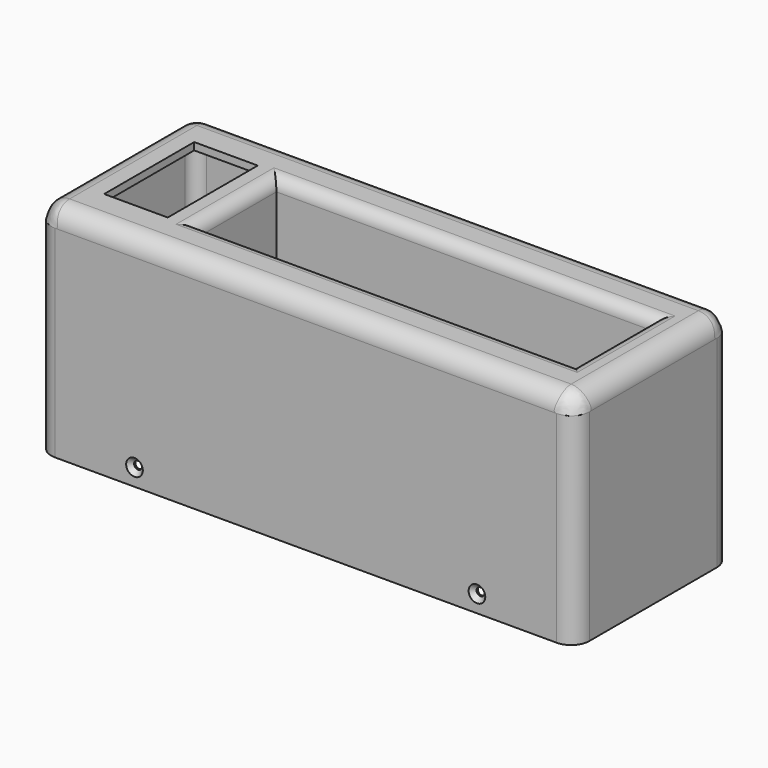
from build123d import *

# Parameters (mm, degrees)
SKETCH_W        = 220
SKETCH_H        = 80
PAD_DEPTH       = 90
SKETCH001_W     = 154
SKETCH001_H     = 40
POCKET_DEPTH    = 50
SKETCH004_W     = 10
SKETCH004_H     = 2
POCKET001_DEPTH = 5
SKETCH003_R     = 11.75
SKETCH003_R_2   = 2.1
POCKET002_DEPTH = 5
SKETCH005_W     = 215
SKETCH005_H     = 75
SKETCH005_W_2   = 160
SKETCH005_H_2   = 46
POCKET003_DEPTH = 87
SKETCH002_W     = 26
SKETCH002_H     = 46
POCKET004_DEPTH = 5
FILLET_R        = 5
FILLET001_R     = 5
FILLET002_R     = 7.5
FILLET003_R     = 5
FILLET004_R     = 4.9
FILLET005_R     = 7.4
SKETCH007_W     = 160
SKETCH007_H     = 46
POCKET005_DEPTH = 34
SKETCH009_R     = 1.6
POCKET006_DEPTH = 80
CHAMFER_SIZE    = 1.8
SKETCH010_W     = 5.5
SKETCH010_H     = 18
POCKET007_DEPTH = 10
SKETCH011_W     = 6
SKETCH011_H     = 5.5
POCKET008_DEPTH = 6
SKETCH006_W     = 124
SKETCH006_H     = 20
POCKET009_DEPTH = 3
SKETCH012_W     = 118
SKETCH012_H     = 14
POCKET010_DEPTH = 3
FILLET006_R     = 0.8
CHAMFER001_SIZE = 1
SKETCH013_R     = 6.5
POCKET011_DEPTH = 5
SKETCH014_W     = 0.6
SKETCH014_H     = 10
PAD001_DEPTH    = 2.5
SKETCH015_W     = 17
SKETCH015_H     = 27
PAD002_DEPTH    = 10
FILLET007_R     = 2
POCKET012_DEPTH = 6


with BuildPart() as part:
    # Sketch → Pad (new body)
    with BuildSketch(Plane.XY):
        Rectangle(SKETCH_W, SKETCH_H)
    extrude(amount=PAD_DEPTH)

    # Sketch001 (on Face6 of Pad) → Pocket (cut)
    with BuildSketch(Plane.XY.offset(90)):
        with Locations((17, 0)):
            Rectangle(SKETCH001_W, SKETCH001_H)
    extrude(amount=-POCKET_DEPTH, mode=Mode.SUBTRACT)

    # Sketch004 (on Face1 of Pocket) → Pocket001 (cut)
    with BuildSketch(Plane(origin=(-110, 0, 0), x_dir=(0, -1, 0), z_dir=(-1, 0, 0))):
        with Locations((0, 28.633085)):
            Rectangle(SKETCH004_W, SKETCH004_H)
    extrude(amount=-POCKET001_DEPTH, mode=Mode.SUBTRACT)

    # Sketch003 (on Face1 of Pocket) → Pocket002 (cut)
    with BuildSketch(Plane(origin=(-110, 0, 0), x_dir=(0, -1, 0), z_dir=(-1, 0, 0))):
        with Locations((0, 17)):
            Circle(SKETCH003_R)
        with Locations((9.5, 5)):
            Circle(SKETCH003_R_2)
        with Locations((-9.5, 29)):
            Circle(SKETCH003_R_2)
    extrude(amount=-POCKET002_DEPTH, mode=Mode.SUBTRACT)

    # Sketch005 (on Face3 of Pocket002) → Pocket003 (cut)
    with BuildSketch(Plane(origin=(0, 0, 0), x_dir=(1, 0, 0), z_dir=(0, 0, -1))):
        Rectangle(SKETCH005_W, SKETCH005_H)
        with Locations((17, 0)):
            Rectangle(SKETCH005_W_2, SKETCH005_H_2, mode=Mode.SUBTRACT)
    extrude(amount=-POCKET003_DEPTH, mode=Mode.SUBTRACT)

    # Sketch002 (on Face5 of Pocket) → Pocket004 (cut)
    with BuildSketch(Plane.XY.offset(90)):
        with Locations((-83, 0)):
            Rectangle(SKETCH002_W, SKETCH002_H)
    extrude(amount=-POCKET004_DEPTH, mode=Mode.SUBTRACT)

    # Fillet
    fillet_edges = [part.edges().sort_by_distance(p)[0] for p in [
        (-63, 0, 87),
        (17, -23, 87),
        (17, 23, 87),
        (97, 0, 87),
    ]]
    fillet(fillet_edges, radius=FILLET_R)

    # Fillet001
    fillet001_edges = [part.edges().sort_by_distance(p)[0] for p in [
        (0, 37.5, 87),
        (107.5, 0, 87),
        (0, -37.5, 87),
        (-107.5, 0, 87),
    ]]
    fillet(fillet001_edges, radius=FILLET001_R)

    # Fillet002
    fillet002_edges = [part.edges().sort_by_distance(p)[0] for p in [
        (0, 40, 90),
        (110, 0, 90),
        (0, -40, 90),
        (-110, 0, 90),
    ]]
    fillet(fillet002_edges, radius=FILLET002_R)

    # Fillet003
    fillet003_edges = [part.edges().sort_by_distance(p)[0] for p in [
        (17, -20, 90),
        (-60, 0, 90),
        (17, 20, 90),
        (94, 0, 90),
    ]]
    fillet(fillet003_edges, radius=FILLET003_R)

    # Fillet004
    fillet004_edges = [part.edges().sort_by_distance(p)[0] for p in [
        (107.5, 37.5, 41),
        (107.5, -37.5, 41),
        (-107.5, 37.5, 41),
        (-107.5, -37.5, 41),
    ]]
    fillet(fillet004_edges, radius=FILLET004_R)

    # Fillet005
    fillet005_edges = [part.edges().sort_by_distance(p)[0] for p in [
        (110, -40, 41.25),
        (110, 40, 41.25),
        (-110, 40, 41.25),
        (-110, -40, 41.25),
    ]]
    fillet(fillet005_edges, radius=FILLET005_R)

    # Sketch007 → Pocket005 (cut)
    with BuildSketch(Plane(origin=(0, 0, 0), x_dir=(1, 0, 0), z_dir=(0, 0, -1))):
        with Locations((17, 0)):
            Rectangle(SKETCH007_W, SKETCH007_H)
    extrude(amount=-POCKET005_DEPTH, mode=Mode.SUBTRACT)

    # Sketch009 → Pocket006 (cut)
    with BuildSketch(Plane(origin=(0, 40, 0), x_dir=(-1, 0, 0), z_dir=(0, 1, 0))):
        with Locations((-70, 7)):
            Circle(SKETCH009_R)
        with Locations((70, 7)):
            Circle(SKETCH009_R)
    extrude(amount=-POCKET006_DEPTH, mode=Mode.SUBTRACT)

    # Chamfer
    chamfer_edges = [part.edges().sort_by_distance(p)[0] for p in [
        (71.6, -40, 7),
        (-68.4, -40, 7),
        (71.6, 40, 7),
        (-68.4, 40, 7),
    ]]
    chamfer(chamfer_edges, length=CHAMFER_SIZE)

    # Sketch010 → Pocket007 (cut)
    with BuildSketch(Plane.XY.offset(40)):
        with Locations((91.25, 8.5)):
            Rectangle(SKETCH010_W, SKETCH010_H)
        with Locations((-57.25, 8.5)):
            Rectangle(SKETCH010_W, SKETCH010_H)
    extrude(amount=-POCKET007_DEPTH, mode=Mode.SUBTRACT)

    # Sketch011 (on Face60 of Pocket007) → Pocket008 (cut)
    with BuildSketch(Plane.XY.offset(40)):
        with Locations((-51.5, 11.75)):
            Rectangle(SKETCH011_W, SKETCH011_H)
        with Locations((85.5, 11.75)):
            Rectangle(SKETCH011_W, SKETCH011_H)
    extrude(amount=-POCKET008_DEPTH, mode=Mode.SUBTRACT)

    # Sketch006 (on Face62 of Fillet005) → Pocket009 (cut)
    with BuildSketch(Plane.XY.offset(40)):
        with Locations((17, 0)):
            Rectangle(SKETCH006_W, SKETCH006_H)
    extrude(amount=-POCKET009_DEPTH, mode=Mode.SUBTRACT)

    # Sketch012 (on Face90 of Pocket009) → Pocket010 (cut)
    with BuildSketch(Plane.XY.offset(37)):
        with Locations((17, 0)):
            Rectangle(SKETCH012_W, SKETCH012_H)
    extrude(amount=-POCKET010_DEPTH, mode=Mode.SUBTRACT)

    # Fillet006
    fillet006_edges = [part.edges().sort_by_distance(p)[0] for p in [
        (-45, 10, 38.5),
        (-42, 7, 35.5),
        (-42, -7, 35.5),
        (-45, -10, 38.5),
        (76, -7, 35.5),
        (79, -10, 38.5),
        (79, 10, 38.5),
        (76, 7, 35.5),
    ]]
    fillet(fillet006_edges, radius=FILLET006_R)

    # Chamfer001
    chamfer001_edges = [part.edges().sort_by_distance(p)[0] for p in [
        (91.25, 17.5, 40),
        (88.5, 16, 40),
        (85.5, 14.5, 40),
        (82.5, 11.75, 40),
        (85.5, 9, 40),
        (88.5, 4.25, 40),
        (91.25, -0.5, 40),
        (-57.25, 17.5, 40),
        (-54.5, 16, 40),
        (-51.5, 14.5, 40),
        (-48.5, 11.75, 40),
        (-51.5, 9, 40),
        (-54.5, 4.25, 40),
        (-57.25, -0.5, 40),
    ]]
    chamfer(chamfer001_edges, length=CHAMFER001_SIZE)

    # Sketch013 (on Face78 of Chamfer001) → Pocket011 (cut)
    with BuildSketch(Plane(origin=(-110, 0, 0), x_dir=(0, -1, 0), z_dir=(-1, 0, 0))):
        with Locations((0, 50)):
            Circle(SKETCH013_R)
    extrude(amount=-POCKET011_DEPTH, mode=Mode.SUBTRACT)

    # Sketch014 (on Face78 of Pocket011) → Pad001 (join)
    with BuildSketch(Plane(origin=(-110, 0, 0), x_dir=(0, -1, 0), z_dir=(-1, 0, 0))):
        with Locations((6.2, 50)):
            Rectangle(SKETCH014_W, SKETCH014_H)
    extrude(amount=-PAD001_DEPTH)

    # Sketch015 (on Face30 of Pad001) → Pad002 (join)
    with BuildSketch(Plane(origin=(0, 0, 34), x_dir=(1, 0, 0), z_dir=(0, 0, -1))):
        with Locations((-54.5, -9.5)):
            Rectangle(SKETCH015_W, SKETCH015_H)
        with Locations((88.5, -9.5)):
            Rectangle(SKETCH015_W, SKETCH015_H)
    extrude(amount=PAD002_DEPTH)

    # Fillet007
    fillet007_edges = [part.edges().sort_by_distance(p)[0] for p in [
        (-54.5, -4, 34),
        (-46, 9.5, 34),
        (80, 9.5, 34),
        (88.5, -4, 34),
        (80, 9.5, 24),
        (88.5, 23, 24),
        (97, 9.5, 24),
        (88.5, -4, 24),
        (-46, 9.5, 24),
        (-54.5, -4, 24),
        (-54.5, 23, 24),
        (-63, 9.5, 24),
    ]]
    fillet(fillet007_edges, radius=FILLET007_R)

    # Sketch016 (on Face112 of Fillet007) → Pocket012 (cut)
    with BuildSketch(Plane.XY.offset(34)):
        Polygon((-60, 17.5), (-54.5, 17.5), (-54.5, 14.5), (-48.5, 14.5), (-48.5, 9), (-54.5, 9), (-54.5, -0.5), (-60, -0.5), align=None)
        Polygon((94, -0.5), (88.5, -0.5), (88.5, 9), (82.5, 9), (82.5, 14.5), (88.5, 14.5), (88.5, 17.5), (94, 17.5), align=None)
    extrude(amount=-POCKET012_DEPTH, mode=Mode.SUBTRACT)


solid = part.part
